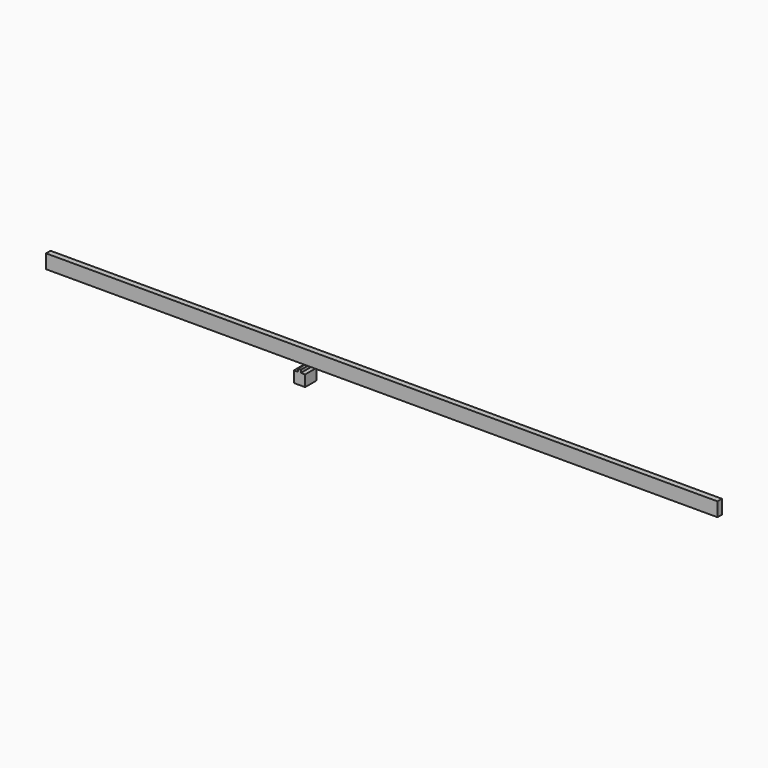
from build123d import *

# Parameters (mm, degrees)
F1_DEPTH = 50.8
F2_DEPTH = 127


with BuildPart() as f1:
    # F0 (on Front) → F1 (new body)
    with BuildSketch(Plane.XZ):
        Polygon((-3721.1, 0), (0, 0), (0, 127), (-6096, 127), (-6096, 0), (-3746.5, 0), align=None)
    extrude(amount=F1_DEPTH)

    # F0 (on Front) → F2 (join)
    with BuildSketch(Plane.XZ):
        Polygon((-3721.1, -25.4), (-3721.1, 0), (-3746.5, 0), (-3746.5, -25.4), (-3784.6, -25.4), (-3784.6, -127), (-3683, -127), (-3683, -25.4), align=None)
    extrude(amount=F2_DEPTH)


solid = f1.part
